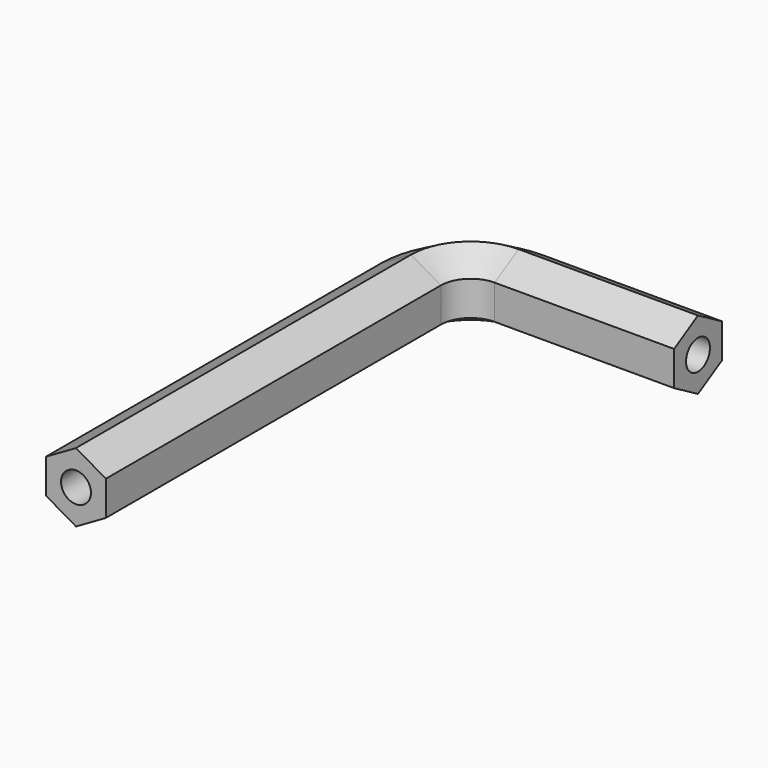
from build123d import *

# Parameters (mm, degrees)
F3_R = 1.5875


with BuildPart() as f2:
    # F2: sweep along a path in F1
    with BuildLine(Plane.XY) as f2_path:
        Line((0, 0), (0, 44.45))
        ThreePointArc((0, 44.45), (1.8598719395, 48.9401280605), (6.35, 50.8))
        Line((6.35, 50.8), (25.4, 50.8))
    # F0 (on Front) → F2 (sweep)
    with BuildSketch(Plane.XZ):
        Polygon((3.175, -1.8330871047), (3.175, 1.8330871047), (0, 3.6661742094), (-3.175, 1.8330871047), (-3.175, -1.8330871047), (0, -3.6661742094), align=None)
    sweep(path=f2_path.line)

    # F4: sweep along a path in F4_path
    with BuildLine(Plane(origin=(3.175, 0, -1.8330871047), x_dir=(-1, 0, 0), z_dir=(0, 0, 1))) as f4_path:
        Line((0, 0), (0, -44.45))
        ThreePointArc((0, -44.45), (-0.9299359697, -46.6950640303), (-3.175, -47.625))
        Line((-3.175, -47.625), (-22.225, -47.625))
    # F3 (on face) → F4 (sweep, cut)
    with BuildSketch(Plane.XZ):
        Circle(F3_R)
    sweep(path=f4_path.line, mode=Mode.SUBTRACT)


solid = f2.part
